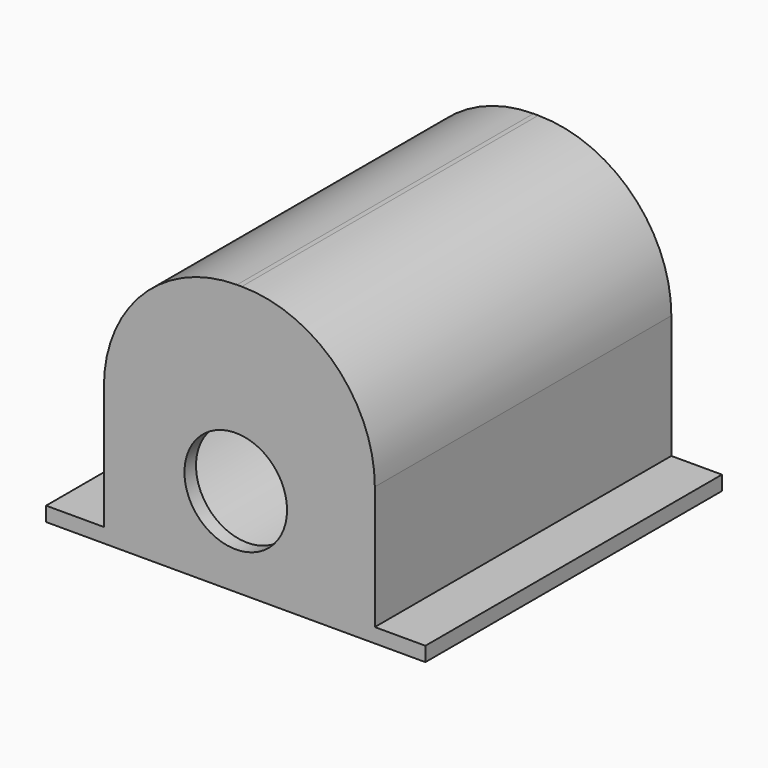
from build123d import *

# Parameters (mm, degrees)
SKETCH018_W     = 52.5
SKETCH018_H     = 2
PAD014_DEPTH    = 51.3
SKETCH028_W     = 37.5
SKETCH028_H     = 51.3
PAD015_DEPTH    = 35.5
FILLET001_R     = 18.416667
SKETCH031_R     = 7.1
POCKET005_DEPTH = 2
SKETCH032_R     = 16.75
POCKET006_DEPTH = 49.3


with BuildPart() as part:
    # Sketch018 → Pad014 (new body)
    with BuildSketch(Plane.XZ):
        with Locations((36.25, 3)):
            Rectangle(SKETCH018_W, SKETCH018_H)
    extrude(amount=-PAD014_DEPTH)

    # Sketch028 (on Face1 of Pad014) → Pad015 (join)
    with BuildSketch(Plane(origin=(0, 0, 4), x_dir=(-1, 0, 0), z_dir=(0, 0, 1))):
        with Locations((-36.75, -25.65)):
            Rectangle(SKETCH028_W, SKETCH028_H)
    extrude(amount=PAD015_DEPTH)

    # Fillet001
    fillet001_edges = [part.edges().sort_by_distance(p)[0] for p in [
        (18, 25.65, 39.5),
        (55.5, 25.65, 39.5),
    ]]
    fillet(fillet001_edges, radius=FILLET001_R)

    # Sketch031 (on Face6 of Pad015) → Pocket005 (cut)
    with BuildSketch(Plane.XZ):
        with Locations((36.25, 14.3)):
            Circle(SKETCH031_R)
    extrude(amount=-POCKET005_DEPTH, mode=Mode.SUBTRACT)

    # Sketch032 (on Face5 of Pocket005) → Pocket006 (cut)
    with BuildSketch(Plane(origin=(0, 51.3, 0), x_dir=(1, 0, 0), z_dir=(0, 1, 0))):
        with Locations((36.75, -20.75)):
            Circle(SKETCH032_R)
    extrude(amount=-POCKET006_DEPTH, mode=Mode.SUBTRACT)


solid = part.part
